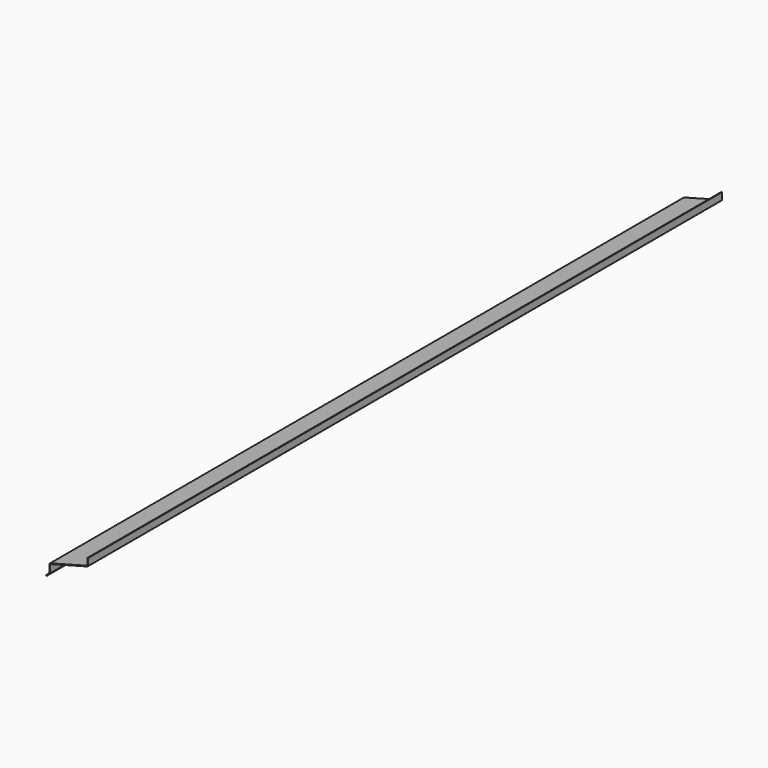
from build123d import *

# Parameters (mm, degrees)
F1_DEPTH = 575


with BuildPart() as f1:
    # F0 (on Front) → F1 (new body, symmetric)
    with BuildSketch(Plane.XZ):
        with BuildLine():
            Line((54.555291, 14.618046), (1.18589, 0.317758))
            ThreePointArc((1.18589, 0.317758), (0.330635, -0.253705), (0, -1.227723))
            Line((0, -1.227723), (0, -11.751472))
            ThreePointArc((0, -11.751472), (-0.045672, -11.981082), (-0.175736, -12.175736))
            Line((-0.175736, -12.175736), (-4.949747, -16.949747))
            Line((-4.949747, -16.949747), (-4.242641, -17.656854))
            Line((-4.242641, -17.656854), (0.531371, -12.882843))
            ThreePointArc((0.531371, -12.882843), (0.878207, -12.363765), (1, -11.751472))
            Line((1, -11.751472), (1, -1.227723))
            ThreePointArc((1, -1.227723), (1.123988, -0.862466), (1.444709, -0.648168))
            Line((1.444709, -0.648168), (54.81411, 13.65212))
            ThreePointArc((54.81411, 13.65212), (55.669365, 14.223583), (56, 15.197602))
            Line((56, 15.197602), (56, 24.737206))
            Line((56, 24.737206), (55, 24.737206))
            Line((55, 24.737206), (55, 15.197602))
            ThreePointArc((55, 15.197602), (54.876012, 14.832345), (54.555291, 14.618046))
        make_face()
    extrude(amount=F1_DEPTH, both=True)


solid = f1.part
